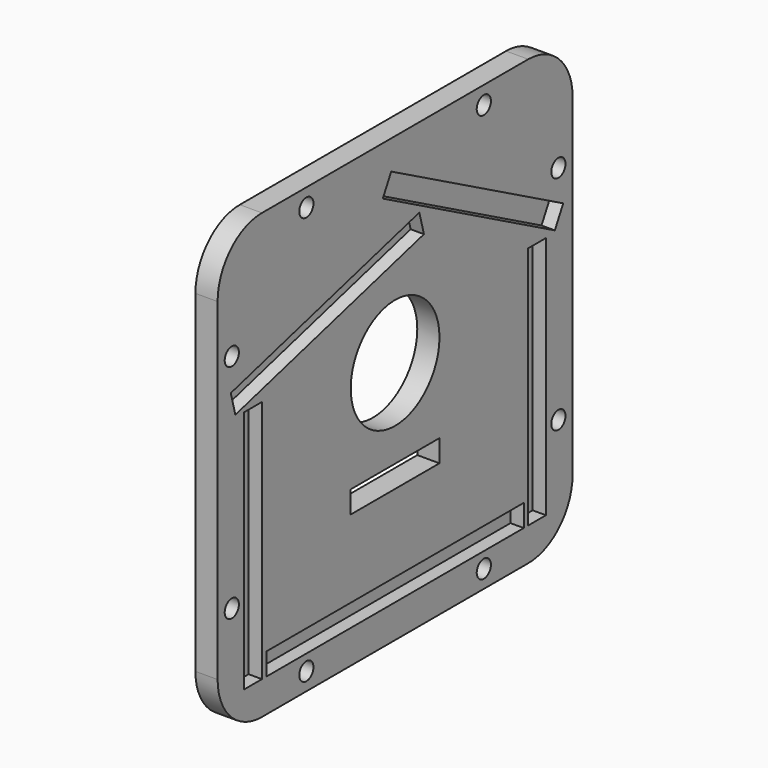
from build123d import *

# Parameters (mm, degrees)
F0_W     = 200
F0_H     = 200
F1_DEPTH = 10
F2_W     = 10
F2_H     = 110
F2_W_2   = 145
F2_H_2   = 10
F3_DEPTH = 6
F6_D     = 50
F7_W     = 50
F7_H     = 10
F8_DEPTH = 10
F10_D    = 8
F11_R    = 25


with BuildPart() as f1:
    # F0 (on Right) → F1 (new body)
    with BuildSketch(Plane.YZ):
        with Locations((100, 100)):
            Rectangle(F0_W, F0_H)
    extrude(amount=F1_DEPTH)

    # F2 (on face) → F3 (cut)
    with BuildSketch(Plane.YZ.offset(10)):
        Polygon((113.66365, 164.129353), (7.41181, 135.659258), (10, 126), (116.251841, 154.470095), align=None)
        Polygon((97.804037, 186.82684), (93.075355, 178.015508), (190, 126), (194.728683, 134.811331), align=None)
        with Locations((20, 70)):
            Rectangle(F2_W, F2_H)
        with Locations((100, 20)):
            Rectangle(F2_W_2, F2_H_2)
        with Locations((180, 70)):
            Rectangle(F2_W, F2_H)
    extrude(amount=-F3_DEPTH, mode=Mode.SUBTRACT)

    # F6 (through all)
    with Locations(Plane(origin=(0, 0, 0), x_dir=(0, -1, 0), z_dir=(-1, 0, 0))):
        with Locations((-100, 110)):
            Hole(F6_D / 2)

    # F7 (on face) → F8 (cut, through all)
    with BuildSketch(Plane(origin=(0, 0, 0), x_dir=(0, -1, 0), z_dir=(-1, 0, 0))):
        with Locations((-100, 65)):
            Rectangle(F7_W, F7_H)
    extrude(amount=-F8_DEPTH, mode=Mode.SUBTRACT)

    # F10 (through all)
    with Locations(Plane(origin=(0, 0, 0), x_dir=(0, -1, 0), z_dir=(-1, 0, 0))):
        with Locations((-150, 192), (-192, 150), (-50, 192), (-8, 150), (-50, 8), (-8, 50), (-150, 8), (-192, 50)):
            Hole(F10_D / 2)

    # F11
    f11_edges = [f1.edges().sort_by_distance(p)[0] for p in [
        (5, 0, 200),
        (5, 0, 0),
        (5, 200, 200),
        (5, 200, 0),
    ]]
    fillet(f11_edges, radius=F11_R)


solid = f1.part
